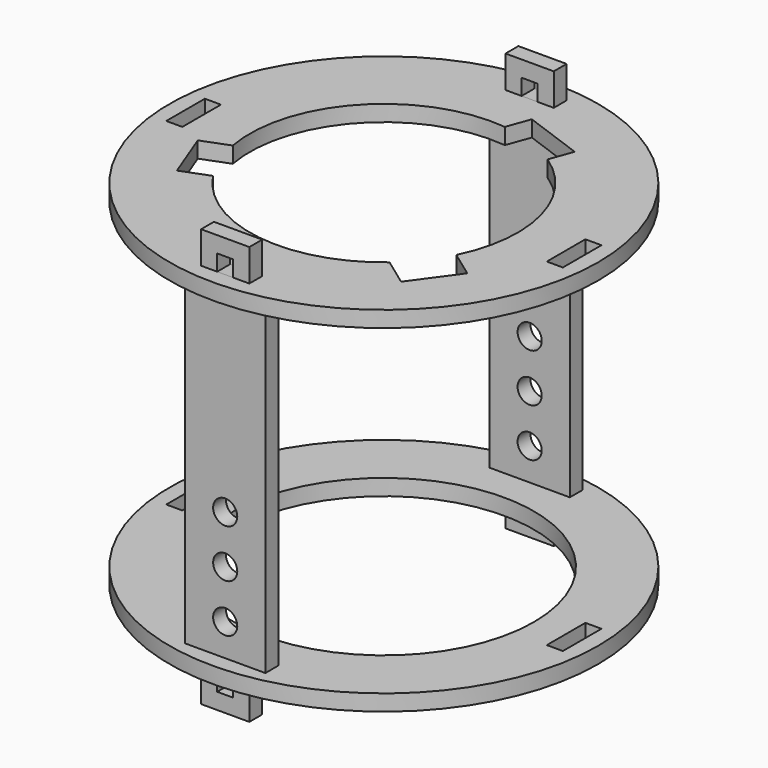
from build123d import *

# Parameters (mm, degrees)
BOX007_W               = 9
BOX007_H               = 3
BOX007_DEPTH           = 3
BOX006_W               = 9
BOX006_H               = 3
BOX006_DEPTH           = 3
BOX005_W               = 3
BOX005_H               = 9
BOX005_DEPTH           = 3
BOX004_W               = 3
BOX004_H               = 9
BOX004_DEPTH           = 3
CYLINDER003_R          = 28
CYLINDER003_DEPTH      = 3
CYLINDER002_R          = 40
CYLINDER002_DEPTH      = 3
BOX020_W               = 10
BOX020_H               = 30
BOX020_DEPTH           = 3
BOX020_PLACEMENT_ANGLE = 111
BOX021_W               = 10
BOX021_H               = 30
BOX021_DEPTH           = 3
BOX021_PLACEMENT_ANGLE = 234
BOX019_W               = 12
BOX019_H               = 30
BOX019_DEPTH           = 3
BOX019_PLACEMENT_ANGLE = -20
BOX003_W               = 9
BOX003_H               = 3
BOX003_DEPTH           = 3
BOX002_W               = 9
BOX002_H               = 3
BOX002_DEPTH           = 3
BOX001_W               = 3
BOX001_H               = 9
BOX001_DEPTH           = 3
BOX_W                  = 3
BOX_H                  = 9
BOX_DEPTH              = 3
CYLINDER001_R          = 25
CYLINDER001_DEPTH      = 3
CYLINDER_R             = 40
CYLINDER_DEPTH         = 3
CYLINDER005_R          = 2.25
CYLINDER005_DEPTH      = 3
CYLINDER005_ROLL_ANGLE = 90
CYLINDER006_R          = 2.25
CYLINDER006_DEPTH      = 3
CYLINDER006_ROLL_ANGLE = 90
CYLINDER004_R          = 2.25
CYLINDER004_DEPTH      = 3
CYLINDER004_ROLL_ANGLE = 90
BOX011_W               = 15
BOX011_H               = 3
BOX011_DEPTH           = 60
BOX010_W               = 3
BOX010_H               = 3
BOX010_DEPTH           = 3
BOX009_W               = 9
BOX009_H               = 3
BOX009_DEPTH           = 9
BOX013_W               = 3
BOX013_H               = 3
BOX013_DEPTH           = 3
BOX012_W               = 9
BOX012_H               = 3
BOX012_DEPTH           = 9
CYLINDER008_R          = 2.25
CYLINDER008_DEPTH      = 3
CYLINDER008_ROLL_ANGLE = 90
CYLINDER009_R          = 2.25
CYLINDER009_DEPTH      = 3
CYLINDER009_ROLL_ANGLE = 90
CYLINDER007_R          = 2.25
CYLINDER007_DEPTH      = 3
CYLINDER007_ROLL_ANGLE = 90
BOX024_W               = 15
BOX024_H               = 3
BOX024_DEPTH           = 60
BOX023_W               = 3
BOX023_H               = 3
BOX023_DEPTH           = 3
BOX022_W               = 9
BOX022_H               = 3
BOX022_DEPTH           = 9
BOX026_W               = 3
BOX026_H               = 3
BOX026_DEPTH           = 3
BOX025_W               = 9
BOX025_H               = 3
BOX025_DEPTH           = 9


with BuildPart() as cube007:
    # Box007 → Box007 (new body)
    with BuildSketch(Plane(origin=(-4.5, -37, 0), x_dir=(1, 0, 0), z_dir=(0, 0, 1))):
        with Locations((4.5, 1.5)):
            Rectangle(BOX007_W, BOX007_H)
    extrude(amount=BOX007_DEPTH)


with BuildPart() as cube006:
    # Box006 → Box006 (new body)
    with BuildSketch(Plane(origin=(-4.5, 34, 0), x_dir=(1, 0, 0), z_dir=(0, 0, 1))):
        with Locations((4.5, 1.5)):
            Rectangle(BOX006_W, BOX006_H)
    extrude(amount=BOX006_DEPTH)


with BuildPart() as cube005:
    # Box005 → Box005 (new body)
    with BuildSketch(Plane(origin=(-37, -4.5, 0), x_dir=(1, 0, 0), z_dir=(0, 0, 1))):
        with Locations((1.5, 4.5)):
            Rectangle(BOX005_W, BOX005_H)
    extrude(amount=BOX005_DEPTH)


with BuildPart() as cube004:
    # Box004 → Box004 (new body)
    with BuildSketch(Plane(origin=(34, -4.5, 0), x_dir=(1, 0, 0), z_dir=(0, 0, 1))):
        with Locations((1.5, 4.5)):
            Rectangle(BOX004_W, BOX004_H)
    extrude(amount=BOX004_DEPTH)


with BuildPart() as cylinder003:
    # Cylinder003 → Cylinder003 (new body)
    with BuildSketch(Plane.XY):
        Circle(CYLINDER003_R)
    extrude(amount=CYLINDER003_DEPTH)


with BuildPart() as ringmiddle:
    # Cylinder002 → Cylinder002 (new body)
    with BuildSketch(Plane.XY):
        Circle(CYLINDER002_R)
    extrude(amount=CYLINDER002_DEPTH)

    # Cut005: cut Cylinder003
    add(cylinder003.part, mode=Mode.SUBTRACT)

    # Cut006: cut Cube004
    add(cube004.part, mode=Mode.SUBTRACT)

    # Cut007: cut Cube005
    add(cube005.part, mode=Mode.SUBTRACT)

    # Cut008: cut Cube006
    add(cube006.part, mode=Mode.SUBTRACT)

    # Cut009: cut Cube007
    add(cube007.part, mode=Mode.SUBTRACT)


with BuildPart() as ringmiddle_1:
    # Cut009 placement: moved
    add(ringmiddle.part.moved(Location((0, 0, -63))))


with BuildPart() as cube020:
    # Box020 → Box020 (new body)
    with BuildSketch(Plane.XY):
        with Locations((5, 15)):
            Rectangle(BOX020_W, BOX020_H)
    extrude(amount=BOX020_DEPTH)


with BuildPart() as cube020_1:
    # Box020 placement: moved
    add(cube020.part.moved(Location((2, -5, 0))).rotate(Axis((2, -5, 0), (0, 0, 1)), BOX020_PLACEMENT_ANGLE))


with BuildPart() as cube021:
    # Box021 → Box021 (new body)
    with BuildSketch(Plane.XY):
        with Locations((5, 15)):
            Rectangle(BOX021_W, BOX021_H)
    extrude(amount=BOX021_DEPTH)


with BuildPart() as cube021_1:
    # Box021 placement: moved
    add(cube021.part.moved(Location((3, 3, 0))).rotate(Axis((3, 3, 0), (0, 0, 1)), BOX021_PLACEMENT_ANGLE))


with BuildPart() as cube019:
    # Box019 → Box019 (new body)
    with BuildSketch(Plane.XY):
        with Locations((6, 15)):
            Rectangle(BOX019_W, BOX019_H)
    extrude(amount=BOX019_DEPTH)


with BuildPart() as cube019_1:
    # Box019 placement: moved
    add(cube019.part.moved(Location((-6, 1, 0))).rotate(Axis((-6, 1, 0), (0, 0, 1)), BOX019_PLACEMENT_ANGLE))


with BuildPart() as cube003:
    # Box003 → Box003 (new body)
    with BuildSketch(Plane(origin=(-4.5, -37, 0), x_dir=(1, 0, 0), z_dir=(0, 0, 1))):
        with Locations((4.5, 1.5)):
            Rectangle(BOX003_W, BOX003_H)
    extrude(amount=BOX003_DEPTH)


with BuildPart() as cube002:
    # Box002 → Box002 (new body)
    with BuildSketch(Plane(origin=(-4.5, 34, 0), x_dir=(1, 0, 0), z_dir=(0, 0, 1))):
        with Locations((4.5, 1.5)):
            Rectangle(BOX002_W, BOX002_H)
    extrude(amount=BOX002_DEPTH)


with BuildPart() as cube001:
    # Box001 → Box001 (new body)
    with BuildSketch(Plane(origin=(-37, -4.5, 0), x_dir=(1, 0, 0), z_dir=(0, 0, 1))):
        with Locations((1.5, 4.5)):
            Rectangle(BOX001_W, BOX001_H)
    extrude(amount=BOX001_DEPTH)


with BuildPart() as cube:
    # Box → Box (new body)
    with BuildSketch(Plane(origin=(34, -4.5, 0), x_dir=(1, 0, 0), z_dir=(0, 0, 1))):
        with Locations((1.5, 4.5)):
            Rectangle(BOX_W, BOX_H)
    extrude(amount=BOX_DEPTH)


with BuildPart() as cylinder001:
    # Cylinder001 → Cylinder001 (new body)
    with BuildSketch(Plane.XY):
        Circle(CYLINDER001_R)
    extrude(amount=CYLINDER001_DEPTH)


with BuildPart() as obj1:
    # Cylinder → Cylinder (new body)
    with BuildSketch(Plane.XY):
        Circle(CYLINDER_R)
    extrude(amount=CYLINDER_DEPTH)

    # Cut: cut Cylinder001
    add(cylinder001.part, mode=Mode.SUBTRACT)

    # Cut001: cut Cube
    add(cube.part, mode=Mode.SUBTRACT)

    # Cut002: cut Cube001
    add(cube001.part, mode=Mode.SUBTRACT)

    # Cut003: cut Cube002
    add(cube002.part, mode=Mode.SUBTRACT)

    # Cut004: cut Cube003
    add(cube003.part, mode=Mode.SUBTRACT)

    # Cut020: cut Cube019
    add(cube019_1.part, mode=Mode.SUBTRACT)

    # Cut021: cut Cube021
    add(cube021_1.part, mode=Mode.SUBTRACT)

    # Cut022: cut Cube020
    add(cube020_1.part, mode=Mode.SUBTRACT)


with BuildPart() as cylinder005:
    # Cylinder005 → Cylinder005 (new body)
    with BuildSketch(Plane.XY):
        Circle(CYLINDER005_R)
    extrude(amount=CYLINDER005_DEPTH)


with BuildPart() as cylinder005_1:
    # Cylinder005 roll: moved
    add(cylinder005.part.rotate(Axis((0, 0, 0), (1, 0, 0)), CYLINDER005_ROLL_ANGLE))


with BuildPart() as cylinder005_2:
    # Cylinder005 placement: moved
    add(cylinder005_1.part.moved(Location((0, -63, -3))))


with BuildPart() as cylinder006:
    # Cylinder006 → Cylinder006 (new body)
    with BuildSketch(Plane.XY):
        Circle(CYLINDER006_R)
    extrude(amount=CYLINDER006_DEPTH)


with BuildPart() as cylinder006_1:
    # Cylinder006 roll: moved
    add(cylinder006.part.rotate(Axis((0, 0, 0), (1, 0, 0)), CYLINDER006_ROLL_ANGLE))


with BuildPart() as cylinder006_2:
    # Cylinder006 placement: moved
    add(cylinder006_1.part.moved(Location((0, -63, -21))))


with BuildPart() as cylinder004:
    # Cylinder004 → Cylinder004 (new body)
    with BuildSketch(Plane.XY):
        Circle(CYLINDER004_R)
    extrude(amount=CYLINDER004_DEPTH)


with BuildPart() as cylinder004_1:
    # Cylinder004 roll: moved
    add(cylinder004.part.rotate(Axis((0, 0, 0), (1, 0, 0)), CYLINDER004_ROLL_ANGLE))


with BuildPart() as cylinder004_2:
    # Cylinder004 placement: moved
    add(cylinder004_1.part.moved(Location((0, -63, -12))))


with BuildPart() as cube011:
    # Box011 → Box011 (new body)
    with BuildSketch(Plane(origin=(-7.5, -66, -27), x_dir=(1, 0, 0), z_dir=(0, 0, 1))):
        with Locations((7.5, 1.5)):
            Rectangle(BOX011_W, BOX011_H)
    extrude(amount=BOX011_DEPTH)


with BuildPart() as cube010:
    # Box010 → Box010 (new body)
    with BuildSketch(Plane(origin=(-1.5, -66, 6), x_dir=(1, 0, 0), z_dir=(0, 0, 1))):
        with Locations((1.5, 1.5)):
            Rectangle(BOX010_W, BOX010_H)
    extrude(amount=BOX010_DEPTH)


with BuildPart() as cut010:
    # Box009 → Box009 (new body)
    with BuildSketch(Plane(origin=(-4.5, -66, 3), x_dir=(1, 0, 0), z_dir=(0, 0, 1))):
        with Locations((4.5, 1.5)):
            Rectangle(BOX009_W, BOX009_H)
    extrude(amount=BOX009_DEPTH)

    # Cut010: cut Cube010
    add(cube010.part, mode=Mode.SUBTRACT)


with BuildPart() as cut010_1:
    # Cut010 placement: moved
    add(cut010.part.moved(Location((0, 0, 30))))


with BuildPart() as cube013:
    # Box013 → Box013 (new body)
    with BuildSketch(Plane(origin=(-1.5, -66, 6), x_dir=(1, 0, 0), z_dir=(0, 0, 1))):
        with Locations((1.5, 1.5)):
            Rectangle(BOX013_W, BOX013_H)
    extrude(amount=BOX013_DEPTH)


with BuildPart() as pitchringconnector:
    # Box012 → Box012 (new body)
    with BuildSketch(Plane(origin=(-4.5, -66, 3), x_dir=(1, 0, 0), z_dir=(0, 0, 1))):
        with Locations((4.5, 1.5)):
            Rectangle(BOX012_W, BOX012_H)
    extrude(amount=BOX012_DEPTH)

    # Cut011: cut Cube013
    add(cube013.part, mode=Mode.SUBTRACT)


with BuildPart() as pitchringconnector_1:
    # Cut011 placement: moved
    add(pitchringconnector.part.moved(Location((0, 0, -39))))

    # Fusion: union Cube011, Cut010
    add(cube011.part)
    add(cut010_1.part)

    # Cut012: cut Cylinder004
    add(cylinder004_2.part, mode=Mode.SUBTRACT)

    # Cut013: cut Cylinder006
    add(cylinder006_2.part, mode=Mode.SUBTRACT)

    # Cut014: cut Cylinder005
    add(cylinder005_2.part, mode=Mode.SUBTRACT)


with BuildPart() as pitchringconnector_2:
    # Cut014 placement: moved
    add(pitchringconnector_1.part.moved(Location((0, 29, -33))))


with BuildPart() as cylinder008:
    # Cylinder008 → Cylinder008 (new body)
    with BuildSketch(Plane.XY):
        Circle(CYLINDER008_R)
    extrude(amount=CYLINDER008_DEPTH)


with BuildPart() as cylinder008_1:
    # Cylinder008 roll: moved
    add(cylinder008.part.rotate(Axis((0, 0, 0), (1, 0, 0)), CYLINDER008_ROLL_ANGLE))


with BuildPart() as cylinder008_2:
    # Cylinder008 placement: moved
    add(cylinder008_1.part.moved(Location((0, -63, -3))))


with BuildPart() as cylinder009:
    # Cylinder009 → Cylinder009 (new body)
    with BuildSketch(Plane.XY):
        Circle(CYLINDER009_R)
    extrude(amount=CYLINDER009_DEPTH)


with BuildPart() as cylinder009_1:
    # Cylinder009 roll: moved
    add(cylinder009.part.rotate(Axis((0, 0, 0), (1, 0, 0)), CYLINDER009_ROLL_ANGLE))


with BuildPart() as cylinder009_2:
    # Cylinder009 placement: moved
    add(cylinder009_1.part.moved(Location((0, -63, -21))))


with BuildPart() as cylinder007:
    # Cylinder007 → Cylinder007 (new body)
    with BuildSketch(Plane.XY):
        Circle(CYLINDER007_R)
    extrude(amount=CYLINDER007_DEPTH)


with BuildPart() as cylinder007_1:
    # Cylinder007 roll: moved
    add(cylinder007.part.rotate(Axis((0, 0, 0), (1, 0, 0)), CYLINDER007_ROLL_ANGLE))


with BuildPart() as cylinder007_2:
    # Cylinder007 placement: moved
    add(cylinder007_1.part.moved(Location((0, -63, -12))))


with BuildPart() as cube024:
    # Box024 → Box024 (new body)
    with BuildSketch(Plane(origin=(-7.5, -66, -27), x_dir=(1, 0, 0), z_dir=(0, 0, 1))):
        with Locations((7.5, 1.5)):
            Rectangle(BOX024_W, BOX024_H)
    extrude(amount=BOX024_DEPTH)


with BuildPart() as cube023:
    # Box023 → Box023 (new body)
    with BuildSketch(Plane(origin=(-1.5, -66, 6), x_dir=(1, 0, 0), z_dir=(0, 0, 1))):
        with Locations((1.5, 1.5)):
            Rectangle(BOX023_W, BOX023_H)
    extrude(amount=BOX023_DEPTH)


with BuildPart() as cut023:
    # Box022 → Box022 (new body)
    with BuildSketch(Plane(origin=(-4.5, -66, 3), x_dir=(1, 0, 0), z_dir=(0, 0, 1))):
        with Locations((4.5, 1.5)):
            Rectangle(BOX022_W, BOX022_H)
    extrude(amount=BOX022_DEPTH)

    # Cut023: cut Cube023
    add(cube023.part, mode=Mode.SUBTRACT)


with BuildPart() as cut023_1:
    # Cut023 placement: moved
    add(cut023.part.moved(Location((0, 0, 30))))


with BuildPart() as cube026:
    # Box026 → Box026 (new body)
    with BuildSketch(Plane(origin=(-1.5, -66, 6), x_dir=(1, 0, 0), z_dir=(0, 0, 1))):
        with Locations((1.5, 1.5)):
            Rectangle(BOX026_W, BOX026_H)
    extrude(amount=BOX026_DEPTH)


with BuildPart() as pitchringconnector001:
    # Box025 → Box025 (new body)
    with BuildSketch(Plane(origin=(-4.5, -66, 3), x_dir=(1, 0, 0), z_dir=(0, 0, 1))):
        with Locations((4.5, 1.5)):
            Rectangle(BOX025_W, BOX025_H)
    extrude(amount=BOX025_DEPTH)

    # Cut024: cut Cube026
    add(cube026.part, mode=Mode.SUBTRACT)


with BuildPart() as pitchringconnector001_1:
    # Cut024 placement: moved
    add(pitchringconnector001.part.moved(Location((0, 0, -39))))

    # Fusion001: union Cube024, Cut023
    add(cube024.part)
    add(cut023_1.part)

    # Cut025: cut Cylinder007
    add(cylinder007_2.part, mode=Mode.SUBTRACT)

    # Cut026: cut Cylinder009
    add(cylinder009_2.part, mode=Mode.SUBTRACT)

    # Cut027: cut Cylinder008
    add(cylinder008_2.part, mode=Mode.SUBTRACT)


with BuildPart() as pitchringconnector001_2:
    # Cut027 placement: moved
    add(pitchringconnector001_1.part.moved(Location((0, 100, -33))))


solid = Compound([ringmiddle_1.part, obj1.part, pitchringconnector_2.part, pitchringconnector001_2.part])
